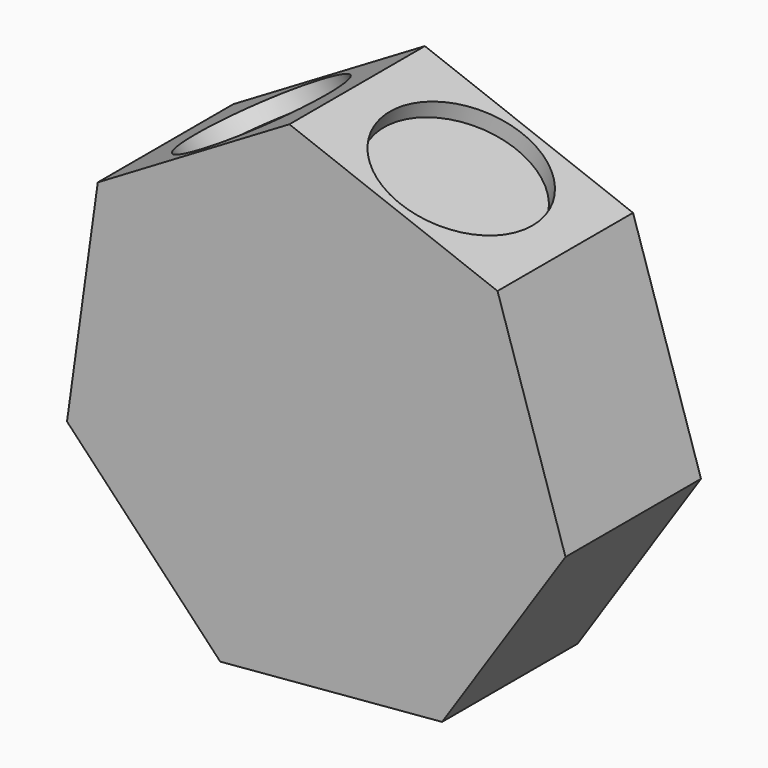
from build123d import *

# Parameters (mm, degrees)
F1_DEPTH = 25.4
F2_R     = 11.43
F5_DEPTH = 2.54
F3_R     = 11.43
F6_DEPTH = 2.54
F4_R     = 11.43
F7_DEPTH = 2.54


with BuildPart() as f1:
    # F0 (on Front) → F1 (new body)
    with BuildSketch(Plane.XZ):
        Polygon((38.1075000086, -5.3176727306), (27.9171615839, 26.4781285077), (-3.2953689198, 38.3353589243), (-32.0264194136, 21.3252821721), (-36.6409228691, -11.7431670122), (-13.6640640655, -35.9687719194), (19.6021136755, -33.109157942), align=None)
    extrude(amount=F1_DEPTH)

    # F2 (on face) → F5 (cut)
    with BuildSketch(Plane(origin=(-34.3336711413, 0, 4.7910575799), x_dir=(0, -1, 0), z_dir=(-0.9904036604, 0, 0.1382048819))):
        with Locations((12.7, 0)):
            Circle(F2_R)
    extrude(amount=-F5_DEPTH, mode=Mode.SUBTRACT)

    # F3 (on face) → F6 (cut)
    with BuildSketch(Plane(origin=(-17.6608941667, 0, 29.8303205482), x_dir=(0.8604980965, 0, 0.5094536543), z_dir=(-0.5094536543, 0, 0.8604980965))):
        with Locations((0, -12.7)):
            Circle(F3_R)
    extrude(amount=-F6_DEPTH, mode=Mode.SUBTRACT)

    # F4 (on face) → F7 (cut)
    with BuildSketch(Plane(origin=(12.3108963321, 0, 32.406743716), x_dir=(0.9348186935, 0, -0.3551253445), z_dir=(0.3551253445, 0, 0.9348186935))):
        with Locations((0, -12.7)):
            Circle(F4_R)
    extrude(amount=-F7_DEPTH, mode=Mode.SUBTRACT)


solid = f1.part
